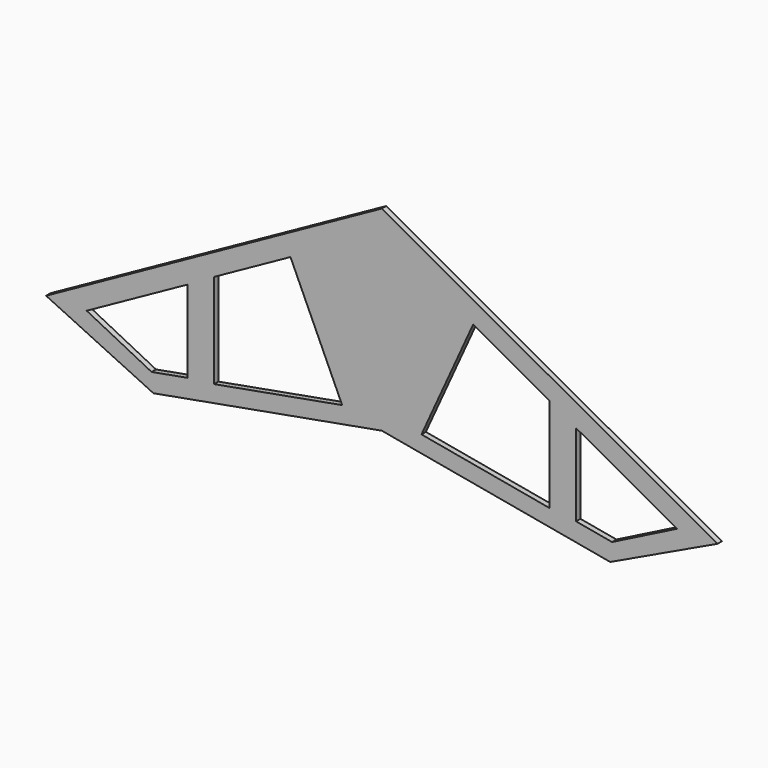
from build123d import *

# Parameters (mm, degrees)
F1_DEPTH = 0.5


with BuildPart() as f1:
    # F0 (on Front) → F1 (new body)
    with BuildSketch(Plane.XZ):
        Polygon((30.617787, 0), (0, 16.957333), (-30.617787, 0), (-20.829491, -4.643979), (0, -0.876525), (20.829491, -4.643979), align=None)
        Polygon((-17.714929, -2.394255), (-20.996439, -2.987786), (-26.914368, 0), (-17.714929, 5.095011), align=None, mode=Mode.SUBTRACT)
        Polygon((-8.329667, 10.355867), (-3.617292, 0), (-15.308893, -2.114673), (-15.308893, 6.490497), align=None, mode=Mode.SUBTRACT)
        Polygon((15.308893, -2.114673), (3.617292, 0), (8.329667, 10.355867), (15.308893, 6.490497), align=None, mode=Mode.SUBTRACT)
        Polygon((20.996439, -2.987786), (17.714929, -2.394255), (17.714929, 5.095011), (26.914368, 0), align=None, mode=Mode.SUBTRACT)
    extrude(amount=F1_DEPTH)


solid = f1.part
